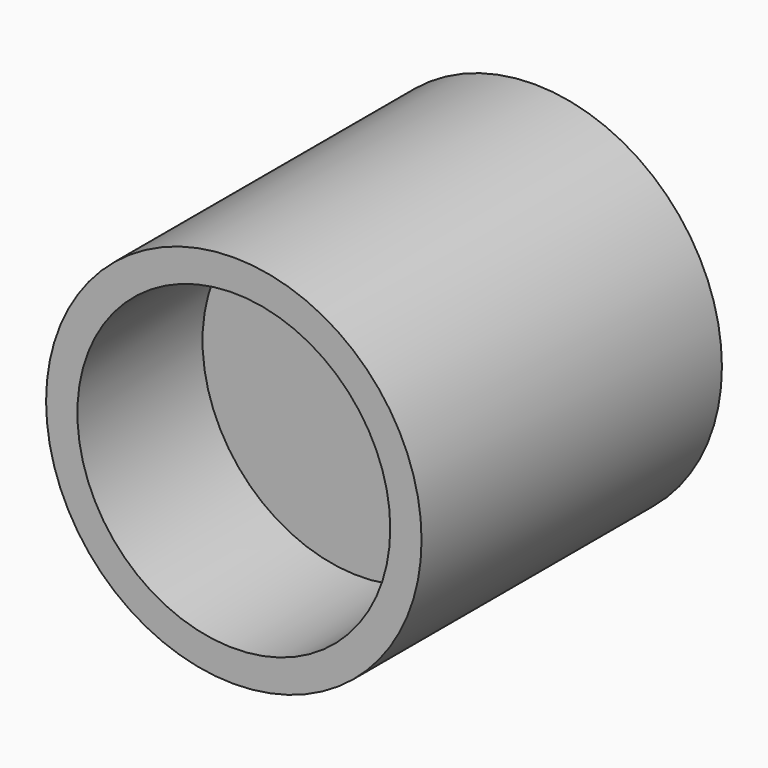
from build123d import *

# Parameters (mm, degrees)
F0_R     = 30
F1_DEPTH = 30
F2_R     = 25
F3_DEPTH = 25


with BuildPart() as f1:
    # F0 (on Front) → F1 (new body)
    with BuildSketch(Plane.XZ):
        Circle(F0_R)
    extrude(amount=F1_DEPTH)

    # F2 (on face) → F3 (cut)
    with BuildSketch(Plane.XZ.offset(30)):
        Circle(F2_R)
    extrude(amount=-F3_DEPTH, mode=Mode.SUBTRACT)

    # F4: F1 across plane


with BuildPart() as f1_1:
    add(f1.part)
    add(f1.part.mirror(Plane.XZ))


solid = f1_1.part
